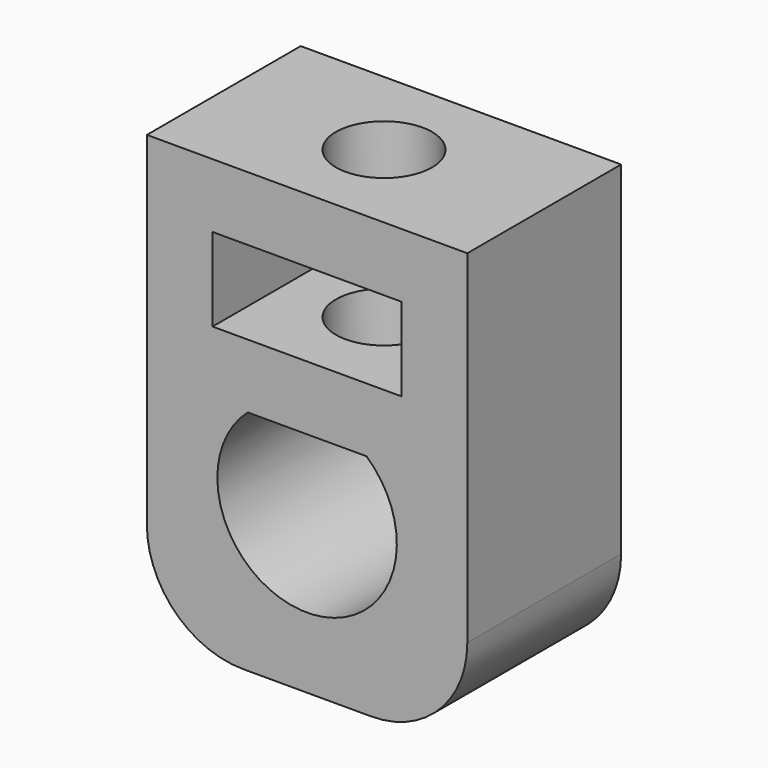
from build123d import *

# Parameters (mm, degrees)
F1_DEPTH = 6
F2_R     = 1.5
F3_DEPTH = 6.6
F4_R     = 3


with BuildPart() as f1:
    # F0 (on Front) → F1 (new body)
    with BuildSketch(Plane.XZ):
        Polygon((-5, -5), (5, -5), (5, 5), (5, 8.7), (-5, 8.7), (-5, 5), align=None)
        with BuildLine():
            ThreePointArc((1.852026, 2.1), (0, -2.8), (-1.852026, 2.1))
            Line((-1.852026, 2.1), (0, 2.1))
            Line((0, 2.1), (1.852026, 2.1))
        make_face(mode=Mode.SUBTRACT)
        Polygon((2.95, 4.1), (0, 4.1), (-2.95, 4.1), (-2.95, 6.7), (2.95, 6.7), align=None, mode=Mode.SUBTRACT)
    extrude(amount=F1_DEPTH)

    # F2 (on face) → F3 (cut, through all)
    with BuildSketch(Plane.XY.offset(8.7)):
        with Locations((0, -3)):
            Circle(F2_R)
    extrude(amount=-F3_DEPTH, mode=Mode.SUBTRACT)

    # F4
    f4_edges = [f1.edges().sort_by_distance(p)[0] for p in [
        (5, -3, -5),
        (-5, -3, -5),
    ]]
    fillet(f4_edges, radius=F4_R)


solid = f1.part
